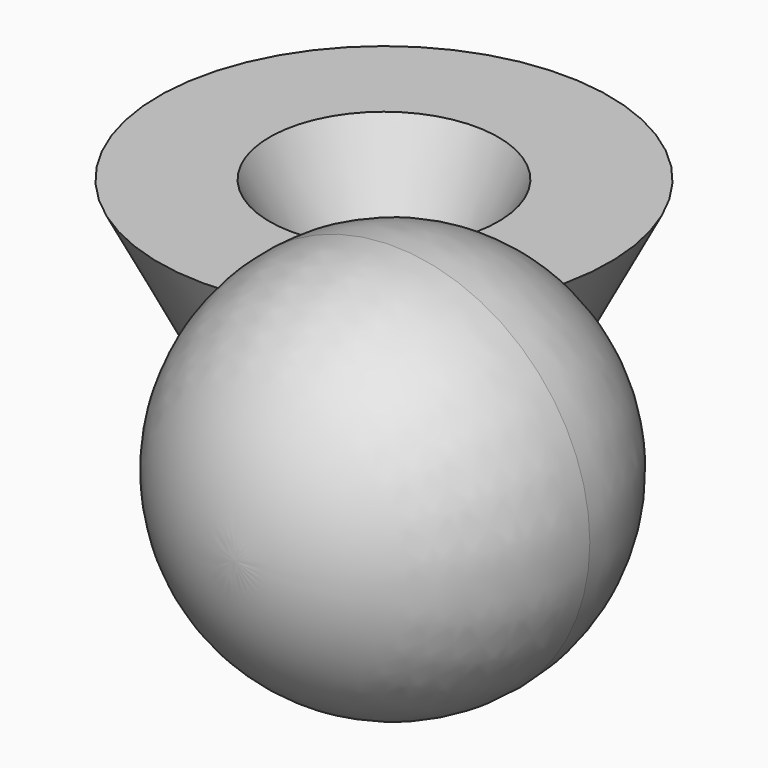
from build123d import *

# Parameters (mm, degrees)
F2_T = -12.7


with BuildPart() as f1:
    # F0 (on Right) → F1 (revolve)
    with BuildSketch(Plane.YZ):
        Polygon((0, -56.41913), (0, 0), (-28.991189, 0), align=None)
    revolve(axis=Axis((0, 0, -28.209565), (0, 0, 1)))

    # F2
    f2_openings = [f1.faces().sort_by_distance(p)[0] for p in [
        (0, 0, 0),
    ]]
    offset(amount=F2_T, openings=f2_openings)


with BuildPart() as f4:
    # F3 (on Top) → F4 (revolve)
    with BuildSketch(Plane.XY):
        with BuildLine():
            ThreePointArc((40.120958, -74.14794), (58.054551, -66.691735), (65.479046, -48.744991))
            ThreePointArc((65.479046, -48.744991), (58.054551, -30.798248), (40.120958, -23.342043))
            Line((40.120958, -23.342043), (40.120958, -74.14794))
        make_face()
    revolve(axis=Axis((40.120958, -48.744991, 0), (0, -1, 0)))


solid = Compound([f1.part, f4.part])
